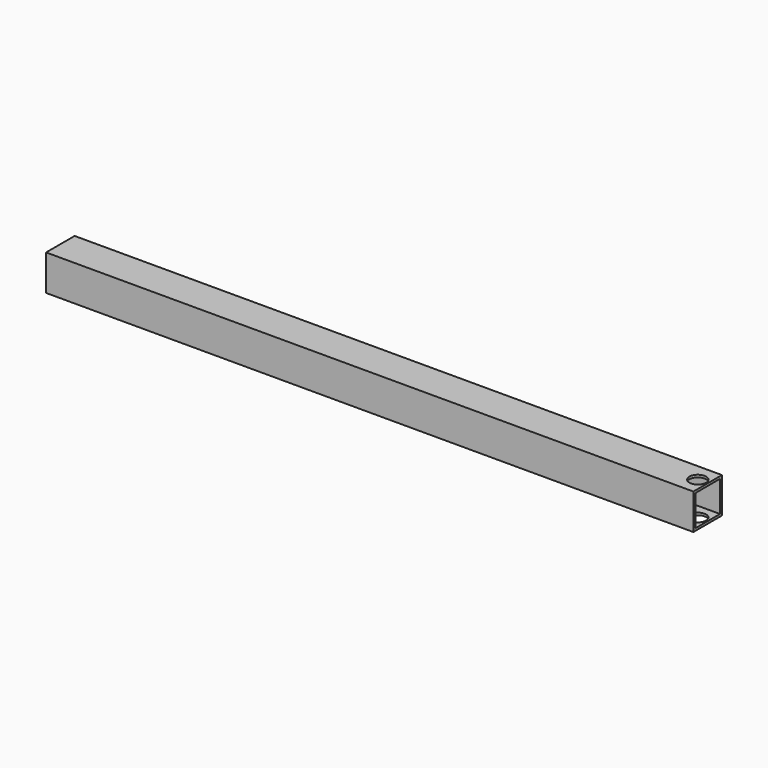
from build123d import *

# Parameters (mm, degrees)
F0_W          = 15
F0_H          = 15
F0_W_2        = 13
F0_H_2        = 13
F1_DEPTH      = 136
F1_DEPTH_BACK = 136
F2_R          = 3.5
F3_DEPTH      = 25


with BuildPart() as f1:
    # F0 (on Right) → F1 (new body, two sides)
    with BuildSketch(Plane.YZ) as f1_sk:
        Rectangle(F0_W, F0_H)
        Rectangle(F0_W_2, F0_H_2, mode=Mode.SUBTRACT)
    extrude(amount=F1_DEPTH)
    extrude(f1_sk.sketch, amount=-F1_DEPTH_BACK)

    # F2 (on face) → F3 (cut)
    with BuildSketch(Plane.XY.offset(7.5)):
        with Locations((131.85, 0)):
            Circle(F2_R)
    extrude(amount=-F3_DEPTH, mode=Mode.SUBTRACT)


solid = f1.part
